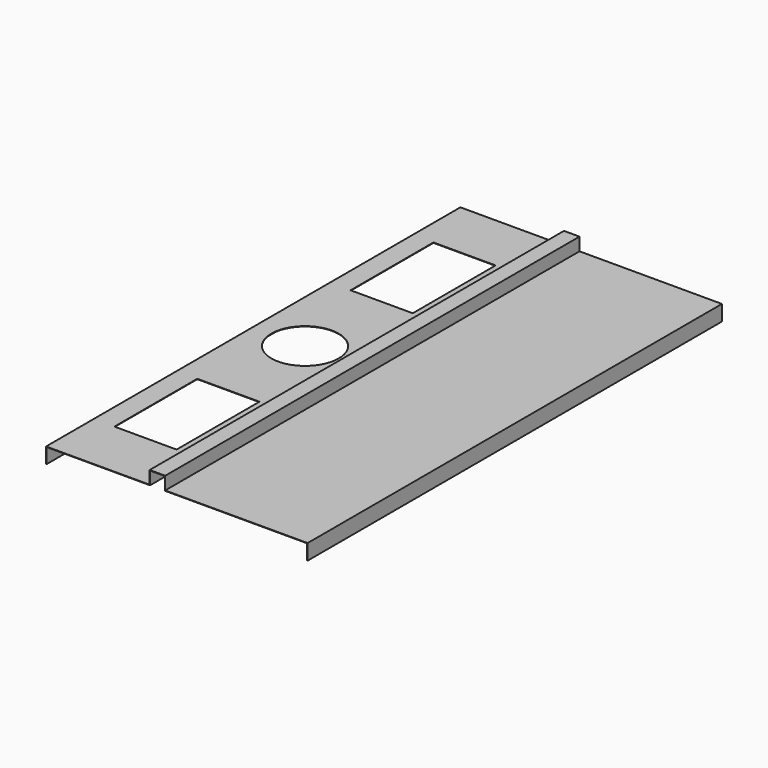
from build123d import *

# Parameters (mm, degrees)
F1_DEPTH = 2000
F2_T     = -1.6
F3_R     = 130
F3_W     = 240
F3_H     = 400
F4_DEPTH = 60.001


with BuildPart() as f1:
    # F0 (on Front) → F1 (new body)
    with BuildSketch(Plane.XZ):
        Polygon((0, 60), (0, 0), (1010, 0), (1010, 60), (460, 60), (460, 110), (400, 110), (400, 60), align=None)
    extrude(amount=F1_DEPTH)

    # F2
    f2_openings = [f1.faces().sort_by_distance(p)[0] for p in [
        (505, -1000, 0),
        (501.462264, -2000, 32.59434),
        (501.462264, 0, 32.59434),
    ]]
    offset(amount=F2_T, openings=f2_openings, kind=Kind.INTERSECTION)

    # F3 (on face) → F4 (cut, through all)
    with BuildSketch(Plane.XY.offset(60)):
        with Locations((200, -1000)):
            Circle(F3_R)
        with Locations((200, -430)):
            Rectangle(F3_W, F3_H)
        with Locations((200, -1570)):
            Rectangle(F3_W, F3_H)
    extrude(amount=-F4_DEPTH, mode=Mode.SUBTRACT)


solid = f1.part
